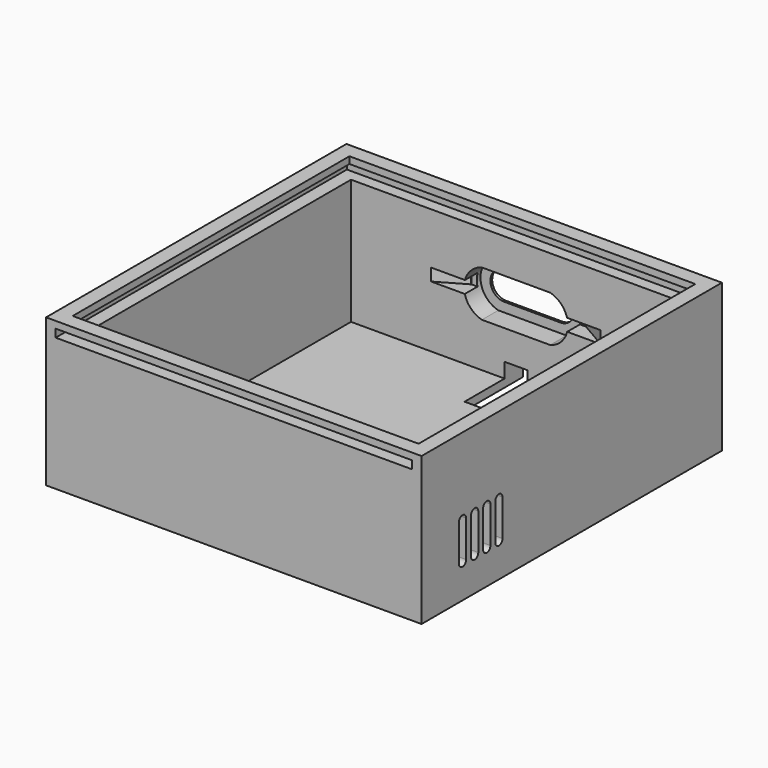
from build123d import *

# Parameters (mm, degrees)
SKETCH_W            = 165
SKETCH_H            = 165
PAD_DEPTH           = 65
SKETCH002_W         = 152
SKETCH002_H         = 152
POCKET_DEPTH        = 6.5
SKETCH003_W         = 145
SKETCH003_H         = 145
POCKET001_DEPTH     = 55
SKETCH005_W         = 156.6
SKETCH005_H         = 3.5
POCKET003_DEPTH     = 160
POCKET004_DEPTH     = 165.001
LINEARPATTERN_COUNT = 4
LINEARPATTERN_PITCH = 6.666667
SKETCH008_W         = 10
SKETCH008_H         = 10
POCKET005_DEPTH     = 32
POCKET006_DEPTH     = 9
SKETCH013_W         = 50.5
SKETCH013_H         = 5.4
POCKET007_DEPTH     = 7
CHAMFER_ANGLE       = 30
CHAMFER_SIZE        = 12
CHAMFER001_ANGLE    = 30
CHAMFER001_SIZE     = 12
POCKET008_DEPTH     = 1.001


with BuildPart() as part:
    # Sketch → Pad (new body)
    with BuildSketch(Plane.XY):
        Rectangle(SKETCH_W, SKETCH_H)
    extrude(amount=PAD_DEPTH)

    # Sketch002 (on Face6 of Pad) → Pocket (cut)
    with BuildSketch(Plane.XY.offset(65)):
        Rectangle(SKETCH002_W, SKETCH002_H)
    extrude(amount=-POCKET_DEPTH, mode=Mode.SUBTRACT)

    # Sketch003 (on Face11 of Pocket) → Pocket001 (cut)
    with BuildSketch(Plane.XY.offset(58.5)):
        Rectangle(SKETCH003_W, SKETCH003_H)
    extrude(amount=-POCKET001_DEPTH, mode=Mode.SUBTRACT)

    # Sketch005 → Pocket003 (cut)
    with BuildSketch(Plane.XZ.offset(82.5)):
        with Locations((0, 60.25)):
            Rectangle(SKETCH005_W, SKETCH005_H)
    extrude(amount=-POCKET003_DEPTH, mode=Mode.SUBTRACT)

    # Sketch007 (on Face2 of Pocket003) → Pocket004 (cut, through all)
    with BuildSketch(Plane(origin=(-82.5, 0, 0), x_dir=(0, -1, 0), z_dir=(-1, 0, 0))):
        with BuildLine():
            ThreePointArc((58, 15), (60, 13), (62, 15))
            Line((62, 15), (62, 31))
            ThreePointArc((62, 31), (60, 33), (58, 31))
            Line((58, 15), (58, 31))
        make_face()
    pocket004 = extrude(amount=-POCKET004_DEPTH, mode=Mode.SUBTRACT)

    # LinearPattern: Pocket004 ×4
    with Locations(*[(0, i * LINEARPATTERN_PITCH, 0) for i in range(1, LINEARPATTERN_COUNT)]):
        add(pocket004, mode=Mode.SUBTRACT)

    # Sketch008 (on Face10 of LinearPattern) → Pocket005 (cut)
    with BuildSketch(Plane(origin=(0, 82.5, 0), x_dir=(-1, 0, 0), z_dir=(0, 1, 0))):
        with Locations((0, 5)):
            Rectangle(SKETCH008_W, SKETCH008_H)
    extrude(amount=-POCKET005_DEPTH, mode=Mode.SUBTRACT)

    # Sketch012 (on Face53 of Pocket005) → Pocket006 (cut)
    with BuildSketch(Plane.XZ.offset(-72.5)):
        with BuildLine():
            ThreePointArc((-14.98, 43.25), (-22.814744, 33.125), (-14.98, 23))
            Line((-14.98, 23), (15.02, 23))
            ThreePointArc((15.02, 23), (22.824854, 33.125), (15.02, 43.25))
            Line((-14.98, 43.25), (15.02, 43.25))
        make_face()
    extrude(amount=-POCKET006_DEPTH, mode=Mode.SUBTRACT)

    # Sketch013 (on Face53 of Pocket006) → Pocket007 (cut)
    with BuildSketch(Plane.XZ.offset(-72.5)):
        with Locations((0, 33.25)):
            Rectangle(SKETCH013_W, SKETCH013_H)
    extrude(amount=-POCKET007_DEPTH, mode=Mode.SUBTRACT)

    # Chamfer
    chamfer_edges = [part.edges().sort_by_distance(p)[0] for p in [
        (-25.25, 72.5, 33.25),
    ]]
    chamfer_side = part.faces().sort_by_distance((0, 72.5, 56.949194))[0]
    chamfer(chamfer_edges, length=CHAMFER_SIZE, angle=CHAMFER_ANGLE, reference=chamfer_side)

    # Chamfer001
    chamfer001_edges = [part.edges().sort_by_distance(p)[0] for p in [
        (25.25, 72.5, 33.25),
    ]]
    chamfer001_side = part.faces().sort_by_distance((-31.25, 72.5, 37.500806))[0]
    chamfer(chamfer001_edges, length=CHAMFER001_SIZE, angle=CHAMFER001_ANGLE, reference=chamfer001_side)

    # Sketch014 (on Face21 of Chamfer001) → Pocket008 (cut, through all)
    with BuildSketch(Plane.XZ.offset(-81.5)):
        with BuildLine():
            Line((12.35, 39.36), (-12.35, 39.36))
            ThreePointArc((-12.35, 39.36), (-18.455, 33.255), (-12.35, 27.15))
            Line((-12.35, 27.15), (12.35, 27.15))
            ThreePointArc((12.35, 27.15), (18.455, 33.255), (12.35, 39.36))
        make_face()
    extrude(amount=-POCKET008_DEPTH, mode=Mode.SUBTRACT)


solid = part.part
